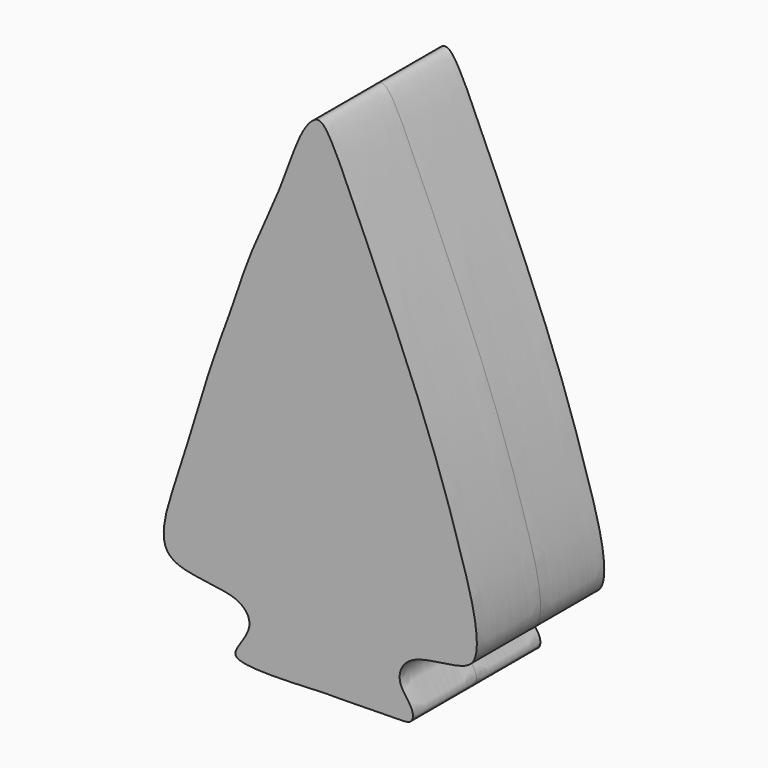
from build123d import *

# Parameters (mm, degrees)
F1_DEPTH = 12.7


with BuildPart() as f1:
    # F0 (on Front) → F1 (new body, symmetric)
    with BuildSketch(Plane.XZ):
        with BuildLine():
            add(Edge.make_bspline(
                [(0, -10.6251281476), (1.5985451934, -10.5726770751), (2.7055623961, -10.67393533), (6.5200437546, -10.5254244869), (11.7260391298, -10.5108305601), (14.0504018929, -10.3999353064), (14.2736758463, -8.2532732839), (11.8890605797, -5.9038404614), (11.8790177896, -3.1497022094), (14.3978753313, -0.5560843643), (21.3284703439, -0.2049302542), (24.408325864, 1.413949235), (24.3343341645, 7.2215896276), (21.7569195202, 16.1627885452), (16.1859566041, 33.5746928766), (5.5845495203, 57.4227653708), (0.7200080081, 68.5371968074), (-1.3196011279, 69.9867982644), (-4.0982314069, 66.9049854014), (-6.6486611906, 58.318189868), (-11.9531818949, 47.5455029044), (-14.6857188341, 38.7169786167), (-18.2795767892, 29.638013147), (-22.9131509895, 13.3455959042), (-28.4329289192, -1.7567600906), (-13.8731858199, -0.6235182865), (-11.0507076177, -5.1188404612), (-14.0610562029, -8.5749060257), (-14.8041174025, -11.5216465453), (-3.4743928185, -10.7391290719), (0, -10.6251281476)],
                knots=[0, 0, 0, 0, 0.0238181176, 0.0500210738, 0.0825785324, 0.1018983051, 0.1193006424, 0.1443328955, 0.1659157981, 0.1908788265, 0.2273604549, 0.2513987798, 0.2822841975, 0.3243446392, 0.3845312391, 0.4577611376, 0.5044353028, 0.5216125186, 0.5464787186, 0.5886762627, 0.6375153478, 0.6793788263, 0.7224528795, 0.7820332633, 0.8298337537, 0.8753362416, 0.9028716611, 0.931287271, 0.9482319942, 1, 1, 1, 1], degree=3))
        make_face()
    extrude(amount=F1_DEPTH, both=True)


solid = f1.part
